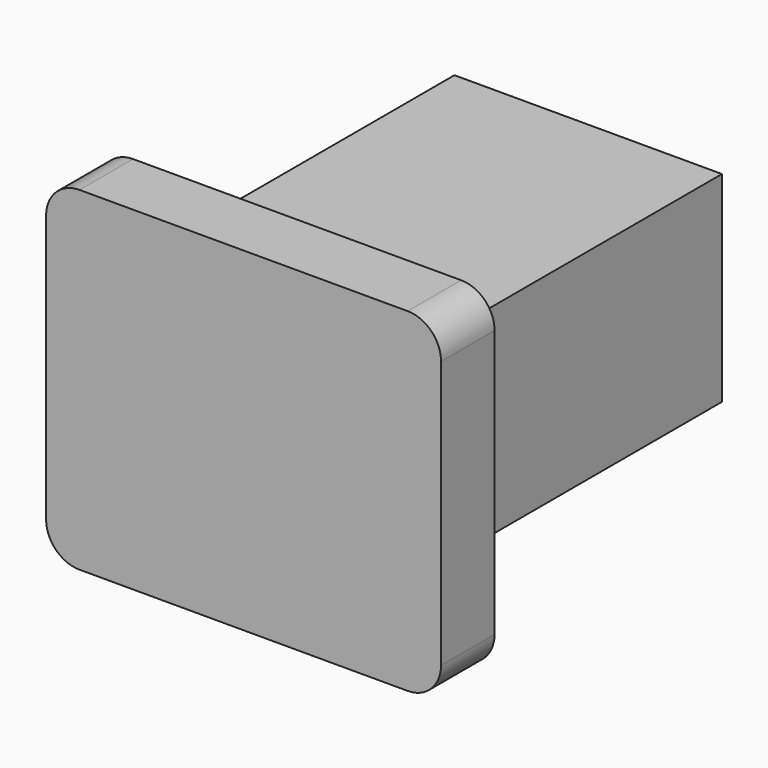
from build123d import *

# Parameters (mm, degrees)
F1_DEPTH = 10
F2_W     = 40
F2_H     = 30
F3_DEPTH = 55


with BuildPart() as f1:
    # F0 (on Front) → F1 (new body)
    with BuildSketch(Plane.XZ):
        with BuildLine():
            Line((25.653138, 14.966757), (-23.414218, 14.966757))
            ThreePointArc((-23.414218, 14.966757), (-26.949752, 13.502291), (-28.414218, 9.966757))
            Line((-28.414218, 9.966757), (-28.414218, -30.033243))
            ThreePointArc((-28.414218, -30.033243), (-26.949752, -33.568777), (-23.414218, -35.033243))
            Line((-23.414218, -35.033243), (25.653138, -35.033243))
            ThreePointArc((25.653138, -35.033243), (29.188672, -33.568777), (30.653138, -30.033243))
            Line((30.653138, -30.033243), (30.653138, 9.966757))
            ThreePointArc((30.653138, 9.966757), (29.188672, 13.502291), (25.653138, 14.966757))
        make_face()
    extrude(amount=F1_DEPTH)

    # F2 (on Front) → F3 (join)
    with BuildSketch(Plane.XZ):
        with Locations((0.653138, -10.033243)):
            Rectangle(F2_W, F2_H)
    extrude(amount=-F3_DEPTH)


solid = f1.part
